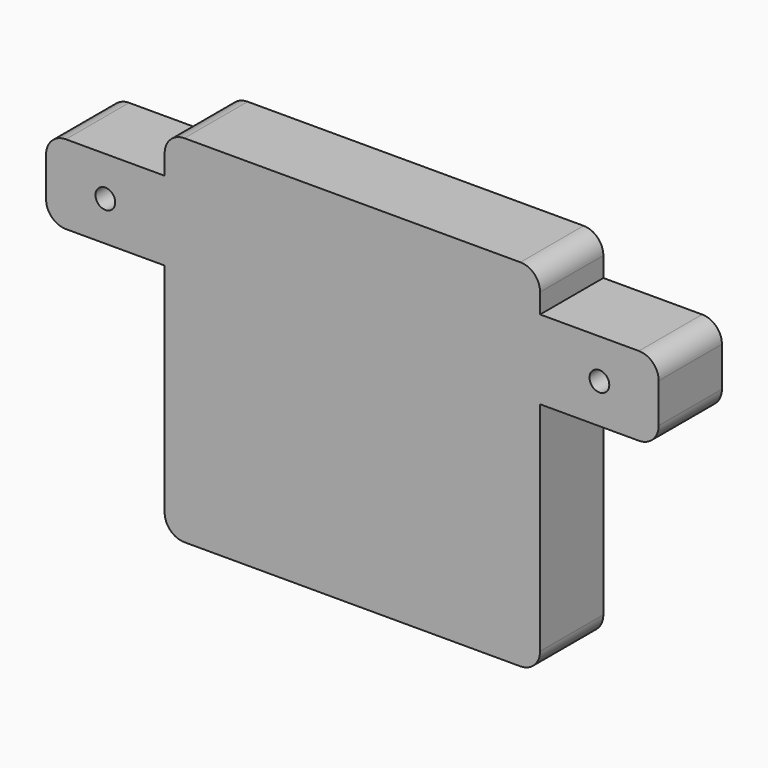
from build123d import *

# Parameters (mm, degrees)
F0_W     = 120.65
F0_H     = 25.4
F0_R     = 3.175
F1_DEPTH = 25.4


with BuildPart() as f1:
    # F0 (on Front) → F1 (new body)
    with BuildSketch(Plane.XZ):
        with Locations((60.325, 12.7)):
            Rectangle(F0_W, F0_H)
        with BuildLine():
            Line((120.65, 0), (0, 0))
            Line((0, 0), (0, -69.85))
            ThreePointArc((0, -69.85), (1.8598719395, -74.3401280605), (6.35, -76.2))
            Line((6.35, -76.2), (114.3, -76.2))
            ThreePointArc((114.3, -76.2), (118.7901280605, -74.3401280605), (120.65, -69.85))
            Line((120.65, -69.85), (120.65, 0))
        make_face()
        with BuildLine():
            Line((-31.75, 0), (0, 0))
            Line((0, 0), (0, 25.4))
            Line((0, 25.4), (-31.75, 25.4))
            ThreePointArc((-31.75, 25.4), (-36.2401280605, 23.5401280605), (-38.1, 19.05))
            Line((-38.1, 19.05), (-38.1, 6.35))
            ThreePointArc((-38.1, 6.35), (-36.2401280605, 1.8598719395), (-31.75, 0))
        make_face()
        with Locations((-19.05, 12.7)):
            Circle(F0_R, mode=Mode.SUBTRACT)
        with BuildLine():
            Line((120.65, 25.4), (120.65, 0))
            Line((120.65, 0), (152.4, 0))
            ThreePointArc((152.4, 0), (156.8901280605, 1.8598719395), (158.75, 6.35))
            Line((158.75, 6.35), (158.75, 19.05))
            ThreePointArc((158.75, 19.05), (156.8901280605, 23.5401280605), (152.4, 25.4))
            Line((152.4, 25.4), (120.65, 25.4))
        make_face()
        with Locations((139.7, 12.7)):
            Circle(F0_R, mode=Mode.SUBTRACT)
        with BuildLine():
            Line((0, 31.75), (0, 25.4))
            Line((0, 25.4), (120.65, 25.4))
            Line((120.65, 25.4), (120.65, 31.75))
            ThreePointArc((120.65, 31.75), (118.7901280605, 36.2401280605), (114.3, 38.1))
            Line((114.3, 38.1), (6.35, 38.1))
            ThreePointArc((6.35, 38.1), (1.8598719395, 36.2401280605), (0, 31.75))
        make_face()
    extrude(amount=F1_DEPTH)


solid = f1.part
